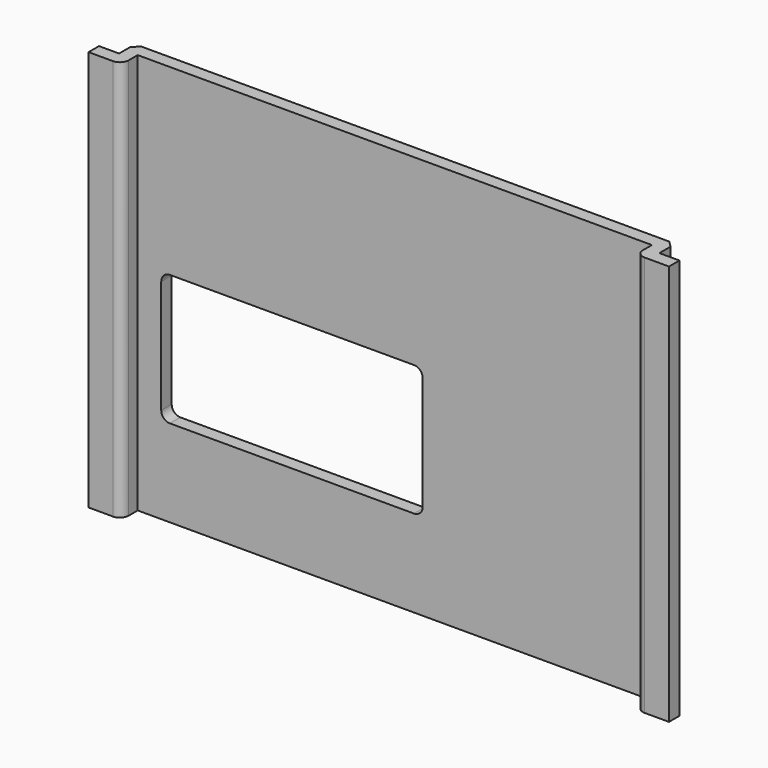
from build123d import *

# Parameters (mm, degrees)
PAD_DEPTH    = 46
CHAMFER_SIZE = 0.7
FILLET_R     = 1
POCKET_DEPTH = 2


with BuildPart() as part:
    # Sketch → Pad (new body)
    with BuildSketch(Plane.XY):
        Polygon((-26.095954, 27.107406), (35.904046, 27.107406), (35.904046, 24.807406), (38.204046, 24.807406), (38.204046, 23.307406), (34.404046, 23.307406), (34.404046, 25.607406), (-24.595954, 25.607406), (-24.595954, 23.307406), (-28.395954, 23.307406), (-28.395954, 24.807406), (-26.095954, 24.807406), align=None)
    extrude(amount=PAD_DEPTH)

    # Chamfer
    chamfer_edges = [part.edges().sort_by_distance(p)[0] for p in [
        (35.904046, 27.107406, 23),
        (-26.095954, 27.107406, 23),
    ]]
    chamfer(chamfer_edges, length=CHAMFER_SIZE)

    # Fillet
    fillet_edges = [part.edges().sort_by_distance(p)[0] for p in [
        (-24.595954, 23.307406, 23),
        (34.404046, 23.307406, 23),
    ]]
    fillet(fillet_edges, radius=FILLET_R)

    # Sketch001 (on Face12 of Fillet) → Pocket (cut)
    with BuildSketch(Plane(origin=(0, 27.107406, 0), x_dir=(-1, 0, 0), z_dir=(0, 1, 0))):
        with BuildLine():
            Line((20.895954, 25), (-7.104046, 25))
            ThreePointArc((-7.104046, 25), (-7.811153, 24.707107), (-8.104046, 24))
            Line((-8.104046, 24), (-8.104046, 11))
            ThreePointArc((-8.104046, 11), (-7.811153, 10.292893), (-7.104046, 10))
            Line((-7.104046, 10), (20.895954, 10))
            ThreePointArc((20.895954, 10), (21.603061, 10.292893), (21.895954, 11))
            Line((21.895954, 11), (21.895954, 24))
            ThreePointArc((21.895954, 24), (21.603061, 24.707107), (20.895954, 25))
        make_face()
    extrude(amount=-POCKET_DEPTH, mode=Mode.SUBTRACT)


solid = part.part
